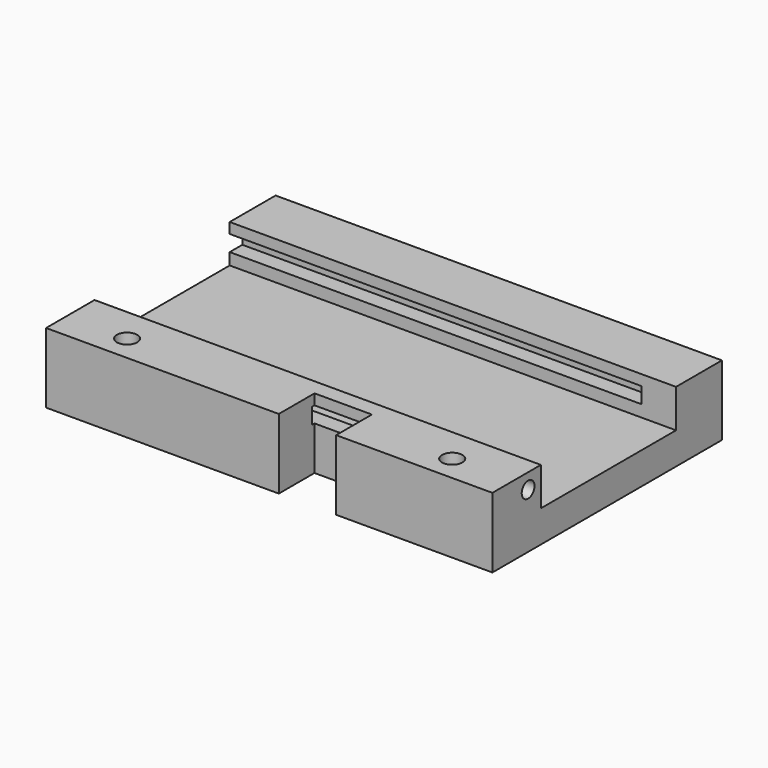
from build123d import *

# Parameters (mm, degrees)
F0_R          = 1.6
F0_W          = 70
F0_H          = 9
F0_H_2        = 26.5
F1_DEPTH      = 11
F2_START      = 5
F2_DEPTH      = 6
F3_DEPTH      = 11
F4_W          = 2.5
F4_H          = 2.5
F4_W_2        = 5
F5_DEPTH      = 59.9
F5_DEPTH_BACK = 28.2
F7_START      = 28.4
F6_R          = 1.25
F7_DEPTH      = 20.7


with BuildPart() as f1:
    # F0 (on Top) → F1 (new body)
    with BuildSketch(Plane.XY):
        Polygon((33.6174106598, 26.1609371045), (-36.3825893402, 26.1609371045), (-36.3825893402, 16.6609371045), (0.1174106598, 16.6609371045), (0.1174106598, 23.6609371045), (9.1174106598, 23.6609371045), (9.1174106598, 16.6609371045), (33.6174106598, 16.6609371045), align=None)
        with Locations((-26.8825893402, 20.6609371045)):
            Circle(F0_R, mode=Mode.SUBTRACT)
        with Locations((24.1174106598, 20.6609371045)):
            Circle(F0_R, mode=Mode.SUBTRACT)
        with Locations((-1.3825893402, 57.1609371045)):
            Rectangle(F0_W, F0_H)
        with Locations((-1.3825893402, 39.4109371045)):
            Rectangle(F0_W, F0_H_2)
    extrude(amount=F1_DEPTH)

    # F0 (on Top) → F2 (cut)
    with BuildSketch(Plane.XY.offset(F2_START)):
        with Locations((-1.3825893402, 39.4109371045)):
            Rectangle(F0_W, F0_H_2)
    extrude(amount=F2_DEPTH, mode=Mode.SUBTRACT)

    # F0 (on Top) → F3 (join)
    with BuildSketch(Plane.XY):
        with Locations((-1.3825893402, 57.1609371045)):
            Rectangle(F0_W, F0_H)
    extrude(amount=F3_DEPTH)

    # F4 (on Right) → F5 (cut, two sides)
    with BuildSketch(Plane.YZ) as f5_sk:
        with Locations((53.8876638908, 8.095925469)):
            Rectangle(F4_W, F4_H)
        with Locations((25.6764949858, 8.095925469)):
            Rectangle(F4_W_2, F4_H)
    extrude(amount=-F5_DEPTH, mode=Mode.SUBTRACT)
    extrude(f5_sk.sketch, amount=F5_DEPTH_BACK, mode=Mode.SUBTRACT)

    # F6 (on Right) → F7 (cut)
    with BuildSketch(Plane.YZ.offset(F7_START)):
        with Locations((23.6609371045, 8.6017483845)):
            Circle(F6_R)
    extrude(amount=F7_DEPTH, mode=Mode.SUBTRACT)


solid = f1.part
